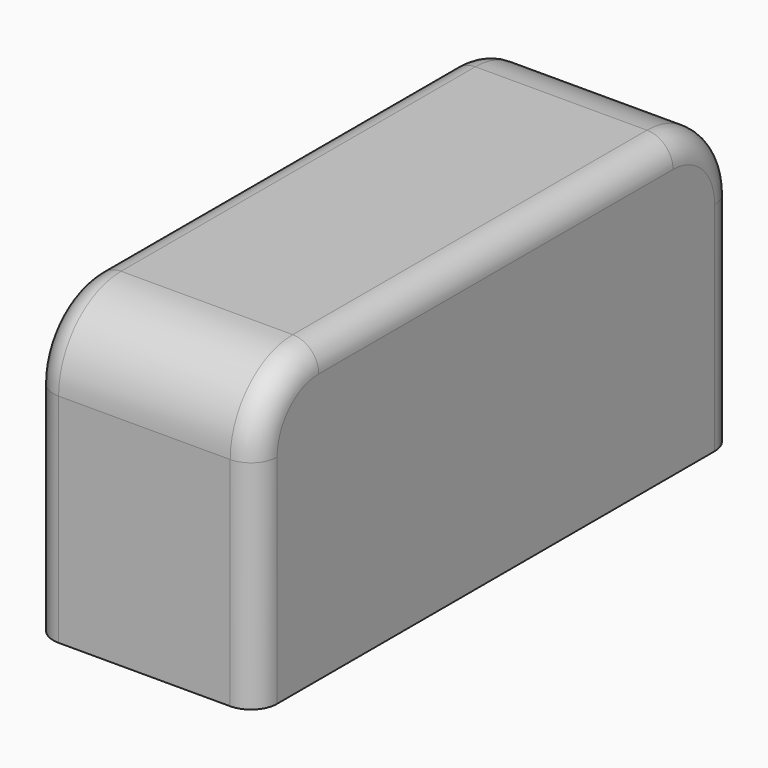
from build123d import *

# Parameters (mm, degrees)
F0_W     = 859
F0_H     = 2300
F1_DEPTH = 1134
F2_R     = 300
F3_R     = 100


with BuildPart() as f1:
    # F0 (on Top) → F1 (new body)
    with BuildSketch(Plane.XY):
        with Locations((345.1126752496, 1093.3118626475)):
            Rectangle(F0_W, F0_H)
    extrude(amount=F1_DEPTH)

    # F2
    f2_edges = [f1.edges().sort_by_distance(p)[0] for p in [
        (345.112675, -56.688137, 1134),
        (345.112675, 2243.311863, 1134),
    ]]
    fillet(f2_edges, radius=F2_R)

    # F3
    f3_edges = [f1.edges().sort_by_distance(p)[0] for p in [
        (774.612675, 1093.311863, 1134),
        (774.612675, 31.179828, 1046.132034),
        (774.612675, -56.688137, 417),
        (774.612675, 2155.443897, 1046.132034),
        (774.612675, 2243.311863, 417),
        (-84.387325, -56.688137, 417),
        (-84.387325, 31.179828, 1046.132034),
        (-84.387325, 1093.311863, 1134),
        (-84.387325, 2155.443897, 1046.132034),
        (-84.387325, 2243.311863, 417),
    ]]
    fillet(f3_edges, radius=F3_R)


solid = f1.part
